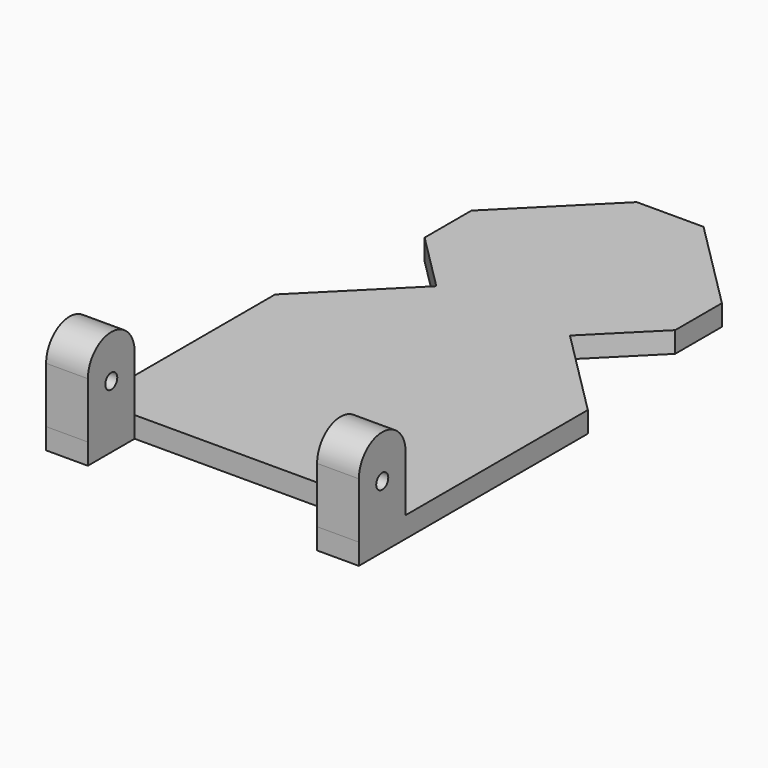
from build123d import *

# Parameters (mm, degrees)
F0_R          = 0.9
F1_DEPTH      = 18.725
F1_DEPTH_BACK = 18.725
F2_W          = 27.45
F2_H          = 10
F3_DEPTH      = 25
F3_DEPTH_BACK = 25
F4_DEPTH      = 5
F4_DEPTH_BACK = 5


with BuildPart() as f1:
    # F0 (on Right) → F1 (new body, two sides)
    with BuildSketch(Plane.YZ) as f1_sk:
        with BuildLine():
            Line((-35, 2.5), (-28, 2.5))
            Line((-28, 2.5), (-28, 9.1788107529))
            ThreePointArc((-28, 9.1788107529), (-31.5, 12.6788107529), (-35, 9.1788107529))
            Line((-35, 9.1788107529), (-35, 2.5))
        make_face()
        with Locations((-31.5, 7.5)):
            Circle(F0_R, mode=Mode.SUBTRACT)
        Polygon((35.0000000196, 7.8434e-06), (35.0000000196, 2.5), (-28, 2.5), (-35, 2.5), (-35.0062623424, 7.8434e-06), align=None)
    extrude(amount=F1_DEPTH)
    extrude(f1_sk.sketch, amount=-F1_DEPTH_BACK)

    # F2 (on Top) → F3 (cut, two sides)
    with BuildSketch(Plane.XY) as f3_sk:
        with Locations((0, -33)):
            Rectangle(F2_W, F2_H)
    extrude(amount=F3_DEPTH, mode=Mode.SUBTRACT)
    extrude(f3_sk.sketch, amount=-F3_DEPTH_BACK, mode=Mode.SUBTRACT)

    # F2 (on Top) → F4 (cut, two sides)
    with BuildSketch(Plane.XY) as f4_sk:
        Polygon((15, 17), (15, 10), (25, 10), (25, 31), (15, 31), (15, 24), align=None)
        Polygon((-25, 10), (-15, 10), (-15, 17), (-15, 24), (-15, 31), (-25, 31), align=None)
        Polygon((-15, 17), (-15, 10), (-8, 10), align=None)
        Polygon((-15, 31), (-15, 24), (-8, 31), align=None)
        Polygon((8, 10), (15, 10), (15, 17), align=None)
        Polygon((8, 31), (15, 24), (15, 31), align=None)
        Polygon((15, 31), (25, 31), (25, 38), (1, 38), (8, 31), align=None)
        Polygon((25, 10), (15, 10), (8, 10), (25, -7), align=None)
        Polygon((-8, 10), (-15, 10), (-25, 10), (-25, -7), align=None)
        Polygon((-25, 38), (-25, 31), (-15, 31), (-8, 31), (-1, 38), align=None)
    extrude(amount=-F4_DEPTH, mode=Mode.SUBTRACT)
    extrude(f4_sk.sketch, amount=F4_DEPTH_BACK, mode=Mode.SUBTRACT)


solid = f1.part
